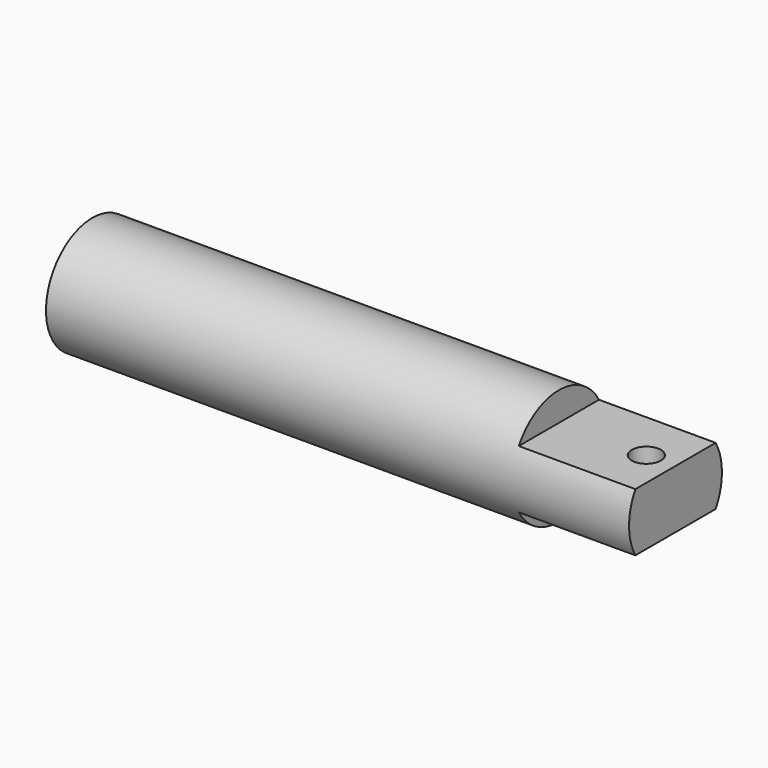
from build123d import *

# Parameters (mm, degrees)
F0_R     = 12.6365
F1_DEPTH = 63.5
F2_W     = 48.017801
F2_H     = 21.21853
F3_DEPTH = 254
F4_R     = 3.175
F5_DEPTH = 18.9875


with BuildPart() as f1:
    # F0 (on Right) → F1 (new body, symmetric)
    with BuildSketch(Plane.YZ):
        Circle(F0_R)
    extrude(amount=F1_DEPTH, both=True)

    # F2 (on Front) → F3 (cut, symmetric)
    with BuildSketch(Plane.XZ):
        with Locations((62.108901, 16.959265)):
            Rectangle(F2_W, F2_H)
        with Locations((62.108901, -16.959265)):
            Rectangle(F2_W, F2_H)
    extrude(amount=F3_DEPTH, both=True, mode=Mode.SUBTRACT)

    # F4 (on face) → F5 (cut, through all)
    with BuildSketch(Plane.XY.offset(6.35)):
        with Locations((57.15, 0)):
            Circle(F4_R)
    extrude(amount=-F5_DEPTH, mode=Mode.SUBTRACT)

    # F6 (on Top) → F7 (revolve, cut)
    with BuildSketch(Plane.XY):
        with BuildLine():
            Line((-63.5, 0), (-57.15, 0))
            ThreePointArc((-57.15, 0), (-58.851477, 6.35), (-63.5, 10.998523))
            Line((-63.5, 10.998523), (-63.5, 0))
        make_face()
    revolve(axis=Axis((-60.325, 0, 0), (-1, 0, 0)), mode=Mode.SUBTRACT)


solid = f1.part
